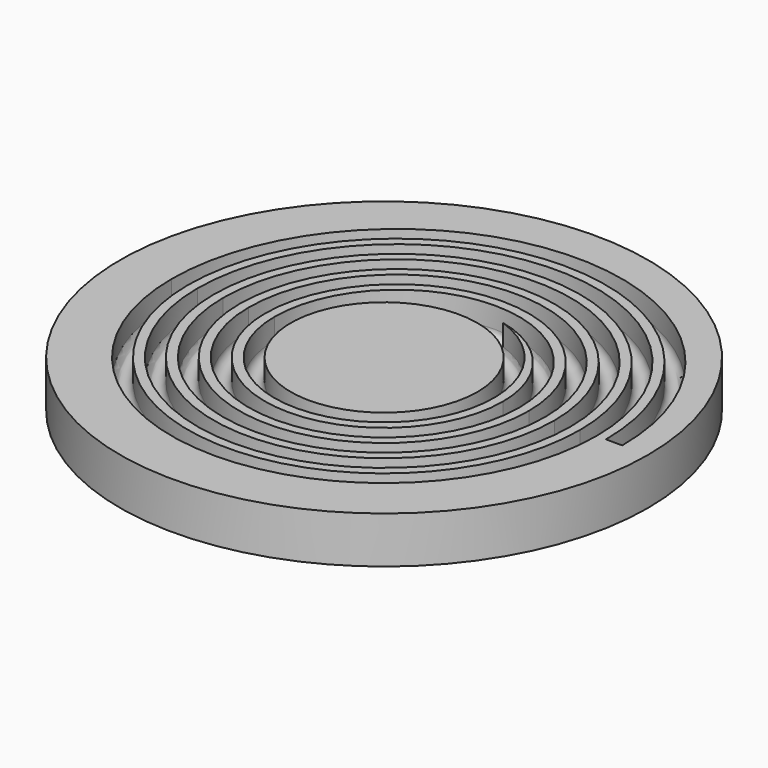
from build123d import *

# Parameters (mm, degrees)
F4_R     = 22.6078
F5_DEPTH = 4


with BuildPart() as f2:
    # F2: sweep along a path in F1
    with BuildLine(Plane.XY) as f2_path:
        ThreePointArc((8.7, 0), (0, -8.7), (-8.7, 0))
        ThreePointArc((-8.7, 0), (1.1, 9.8), (10.9, 0))
        ThreePointArc((10.9, 0), (0, -10.9), (-10.9, 0))
        ThreePointArc((-10.9, 0), (1.1, 12), (13.1, 0))
        ThreePointArc((13.1, 0), (0, -13.1), (-13.1, 0))
        ThreePointArc((-13.1, 0), (1.1, 14.2), (15.3, 0))
        ThreePointArc((15.3, 0), (0, -15.3), (-15.3, 0))
        ThreePointArc((-15.3, 0), (1.1, 16.4), (17.5, 0))
        ThreePointArc((17.5, 0), (0, -17.5), (-17.5, 0))
        ThreePointArc((-17.5, 0), (1.1, 18.6), (19.7, 0))
    # F0 (on Front) → F2 (sweep)
    with BuildSketch(Plane.XZ):
        with BuildLine():
            Line((8, 1.8), (8, 0))
            ThreePointArc((8, 0), (8.7, -0.7), (9.4, 0))
            Line((9.4, 0), (9.4, 1.8))
            Line((9.4, 1.8), (8, 1.8))
        make_face()
    sweep(path=f2_path.line)


with BuildPart() as f3:
    # F3: sweep along a path in F1
    with BuildLine(Plane.XY) as f3_path:
        ThreePointArc((8.7, 0), (0, 8.7), (-8.7, 0))
    # F0 (on Front) → F3 (sweep)
    with BuildSketch(Plane.XZ):
        with BuildLine():
            Line((8, 1.8), (8, 0))
            ThreePointArc((8, 0), (8.7, -0.7), (9.4, 0))
            Line((9.4, 0), (9.4, 1.8))
            Line((9.4, 1.8), (8, 1.8))
        make_face()
    sweep(path=f3_path.line)


with BuildPart() as f5:
    # F4 (on face) → F5 (new body)
    with BuildSketch(Plane.XY.offset(1.8)):
        Circle(F4_R)
    extrude(amount=-F5_DEPTH)

    # F6: cut F2, F3
    add(f2.part, mode=Mode.SUBTRACT)
    add(f3.part, mode=Mode.SUBTRACT)


solid = f5.part
